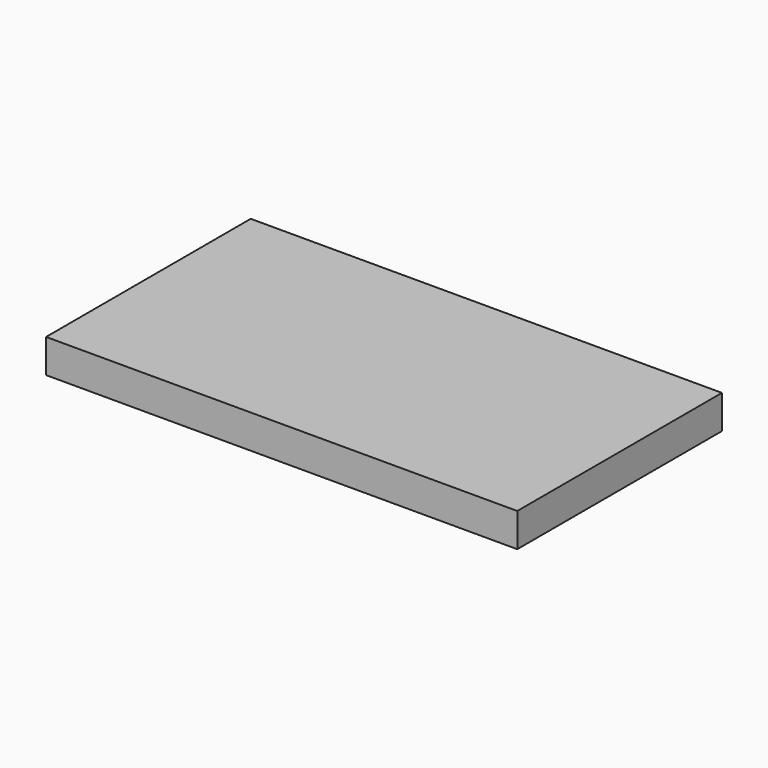
from build123d import *

# Parameters (mm, degrees)
SKETCH027_W   = 68
SKETCH027_H   = 36
PAD015_DEPTH  = 1
SKETCH028_W   = 68
SKETCH028_H   = 36
SKETCH028_W_2 = 66
SKETCH028_H_2 = 34
PAD016_DEPTH  = 3
SKETCH029_W   = 3.04
SKETCH029_H   = 13.335
PAD017_DEPTH  = 3
SKETCH032_R   = 1.5
PAD020_DEPTH  = 3
BOX_W         = 70
BOX_H         = 38
BOX_DEPTH     = 5


with BuildPart() as topmold:
    # Sketch027 → Pad015 (new body)
    with BuildSketch(Plane.XY):
        Rectangle(SKETCH027_W, SKETCH027_H)
    extrude(amount=PAD015_DEPTH)

    # Sketch028 (on Face6 of Pad015) → Pad016 (join)
    with BuildSketch(Plane.XY.offset(1)):
        Rectangle(SKETCH028_W, SKETCH028_H)
        Rectangle(SKETCH028_W_2, SKETCH028_H_2, mode=Mode.SUBTRACT)
    extrude(amount=PAD016_DEPTH)

    # Sketch029 (on Face15 of Pad016) → Pad017 (join)
    with BuildSketch(Plane.XY.offset(1)):
        with Locations((-24.94, 4.5625)):
            Rectangle(SKETCH029_W, SKETCH029_H)
    extrude(amount=PAD017_DEPTH)

    # Sketch032 (on Face15 of Pad017) → Pad020 (join)
    with BuildSketch(Plane.XY.offset(1)):
        with Locations((-31, 15)):
            Circle(SKETCH032_R)
        with Locations((31, 15)):
            Circle(SKETCH032_R)
        with Locations((-31, -15)):
            Circle(SKETCH032_R)
        with Locations((31, -15)):
            Circle(SKETCH032_R)
    extrude(amount=PAD020_DEPTH)


with BuildPart() as topmold_1:
    # Body005 placement: moved
    add(topmold.part.moved(Location((100, 39, 0))))


with BuildPart() as top_mold:
    # Box → Box (new body)
    with BuildSketch(Plane(origin=(65, 20, 0), x_dir=(1, 0, 0), z_dir=(0, 0, 1))):
        with Locations((35, 19)):
            Rectangle(BOX_W, BOX_H)
    extrude(amount=BOX_DEPTH)

    # Cut: cut TopMold
    add(topmold_1.part, mode=Mode.SUBTRACT)


solid = top_mold.part
